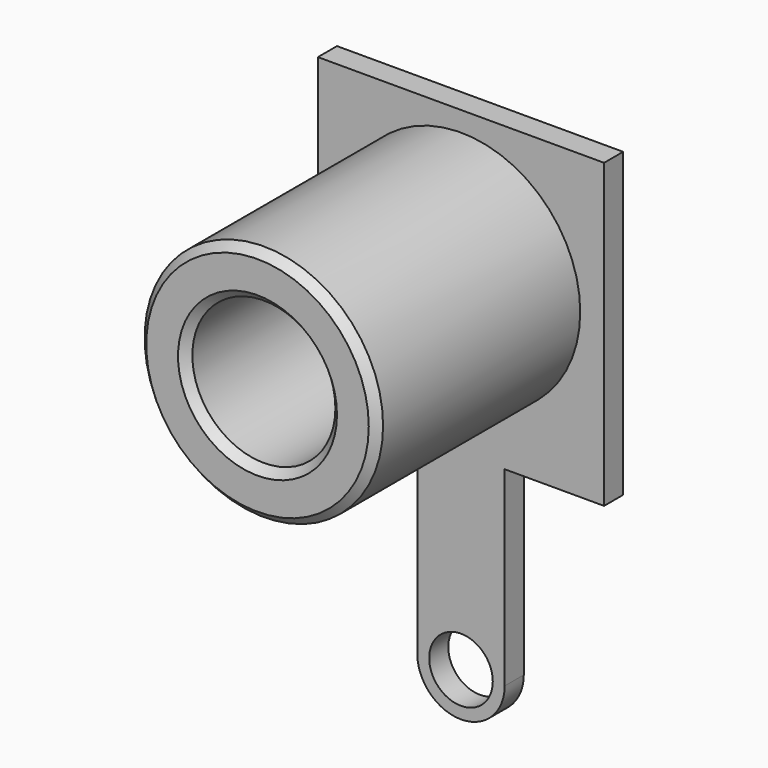
from build123d import *

# Parameters (mm, degrees)
SKETCH050_R     = 0.8
PAD001_DEPTH    = 0.6
SKETCH049_R     = 3
PAD002_DEPTH    = 6.4
SKETCH051_R     = 1.8
POCKET003_DEPTH = 9
CHAMFER002_SIZE = 0.2


with BuildPart() as part:
    # Sketch050 → Pad001 (new body)
    with BuildSketch(Plane.XZ):
        with BuildLine():
            Line((7.2, 7.6), (0, 7.6))
            Line((0, 7.6), (0, 0))
            Line((0, 0), (2.5, 0))
            Line((2.5, 0), (2.5, -4.8))
            ThreePointArc((2.5, -4.8), (3.6, -5.9), (4.7, -4.8))
            Line((4.7, -4.8), (4.7, 0))
            Line((4.7, 0), (7.2, 0))
            Line((7.2, 0), (7.2, 7.6))
        make_face()
        with Locations((3.6, -4.8)):
            Circle(SKETCH050_R, mode=Mode.SUBTRACT)
    extrude(amount=PAD001_DEPTH)

    # Sketch049 (on Face11 of Pad001) → Pad002 (join)
    with BuildSketch(Plane.XZ.offset(0.6)):
        with Locations((3.6, 4.1)):
            Circle(SKETCH049_R)
    extrude(amount=PAD002_DEPTH)

    # Sketch051 (on Face13 of Pad002) → Pocket003 (cut)
    with BuildSketch(Plane.XZ.offset(7)):
        with Locations((3.6, 4.1)):
            Circle(SKETCH051_R)
    extrude(amount=-POCKET003_DEPTH, mode=Mode.SUBTRACT)

    # Chamfer002
    chamfer002_edges = [part.edges().sort_by_distance(p)[0] for p in [
        (0.6, -7, 4.1),
        (1.8, -7, 4.1),
    ]]
    chamfer(chamfer002_edges, length=CHAMFER002_SIZE)


with BuildPart() as part_1:
    # Body placement: moved
    add(part.part.moved(Location((1.4, 2.6, 1.4))))


solid = part_1.part
